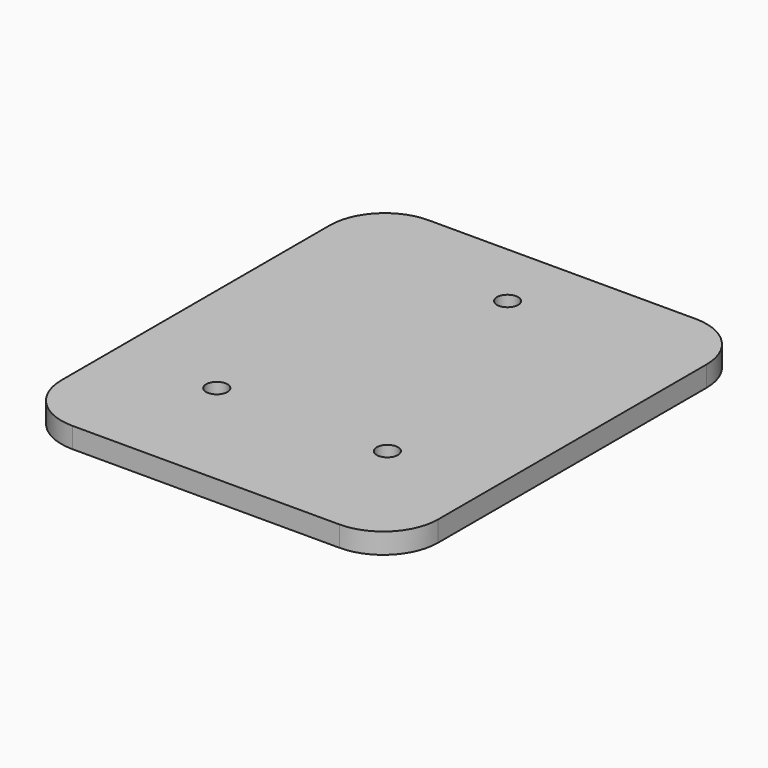
from build123d import *

# Parameters (mm, degrees)
F0_W     = 55
F0_H     = 65
F1_DEPTH = 3
F2_R     = 1.55
F3_DEPTH = 3
F4_R     = 8


with BuildPart() as f1:
    # F0 (on Top) → F1 (new body)
    with BuildSketch(Plane.XY):
        Rectangle(F0_W, F0_H)
    extrude(amount=F1_DEPTH)

    # F2 (on face) → F3 (cut, through all)
    with BuildSketch(Plane.XY.offset(3)):
        with Locations((-12.45, -14.95)):
            Circle(F2_R)
        with Locations((12.45, -14.95)):
            Circle(F2_R)
        with Locations((0, 22.55)):
            Circle(F2_R)
    extrude(amount=-F3_DEPTH, mode=Mode.SUBTRACT)

    # F4
    f4_edges = [f1.edges().sort_by_distance(p)[0] for p in [
        (27.5, -32.5, 1.5),
        (-27.5, -32.5, 1.5),
        (-27.5, 32.5, 1.5),
        (27.5, 32.5, 1.5),
    ]]
    fillet(f4_edges, radius=F4_R)


solid = f1.part
